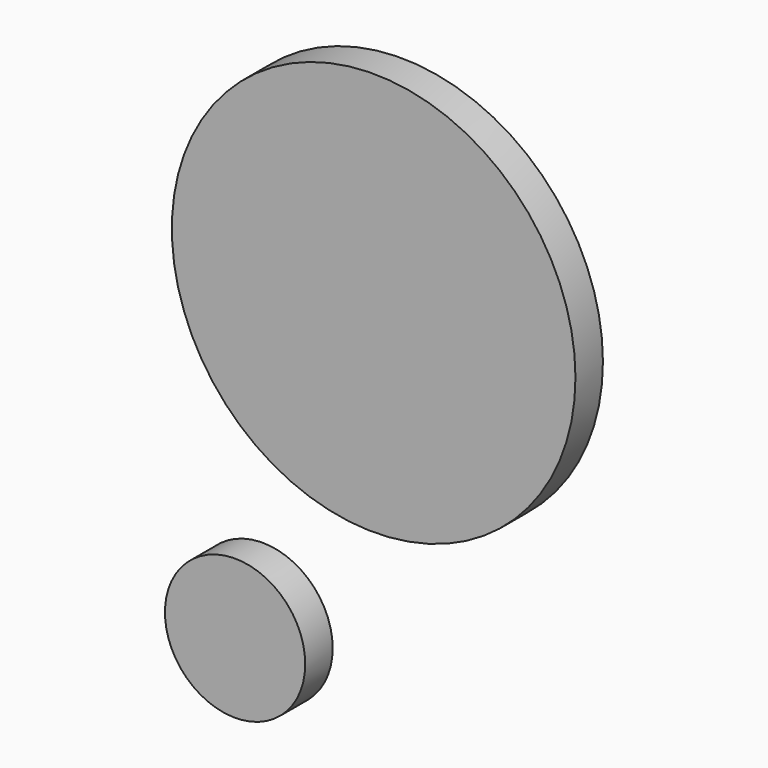
from build123d import *

# Parameters (mm, degrees)
F0_R     = 51.8823295408
F0_R_2   = 30.3796261126
F1_DEPTH = 25.4
F0_R_3   = 149.2836716785


with BuildPart() as f1:
    # F0 (on Front) → F1 (new body)
    with BuildSketch(Plane.XZ):
        Circle(F0_R)
        with Locations((21.5027034283, 0)):
            Circle(F0_R_2, mode=Mode.SUBTRACT)
        with Locations((21.5027034283, 0)):
            Circle(F0_R_2)
    extrude(amount=F1_DEPTH)


with BuildPart() as f1b:
    # F0 (on Front) → F1, piece 2 (new body)
    with BuildSketch(Plane.XZ):
        with Locations((102.5128215551, 251.6205906868)):
            Circle(F0_R_3)
    extrude(amount=F1_DEPTH)


solid = Compound([f1.part, f1b.part])
